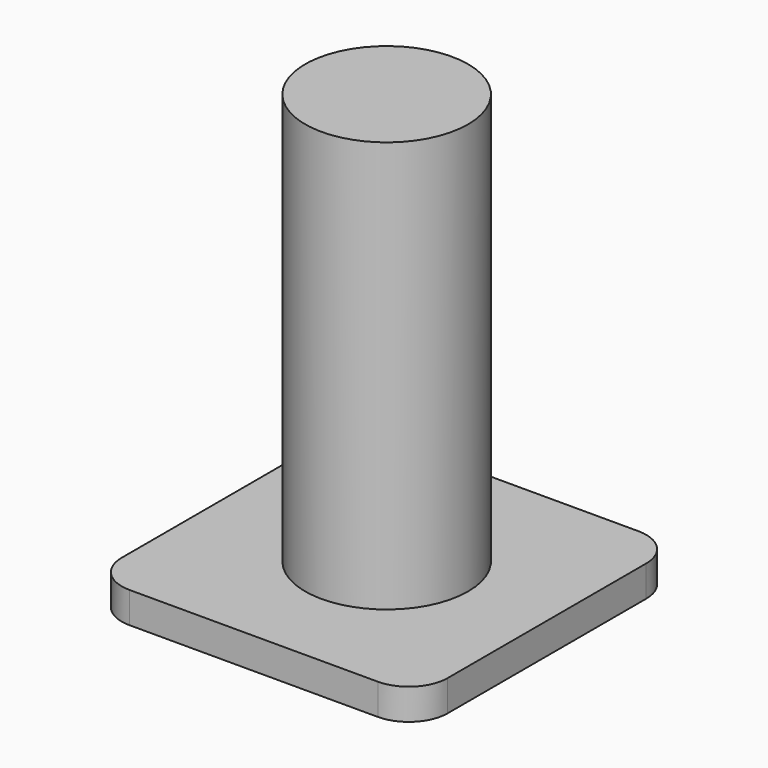
from build123d import *

# Parameters (mm, degrees)
F0_W     = 42
F0_H     = 42
F0_R     = 10.5
F1_DEPTH = 4
F2_DEPTH = 57
F3_R     = 5


with BuildPart() as f1:
    # F0 (on Top) → F1 (new body)
    with BuildSketch(Plane.XY):
        with Locations((-0.312906, -0.03483)):
            Rectangle(F0_W, F0_H)
        Circle(F0_R, mode=Mode.SUBTRACT)
        Circle(F0_R)
    extrude(amount=F1_DEPTH)

    # F0 (on Top) → F2 (join)
    with BuildSketch(Plane.XY):
        Circle(F0_R)
    extrude(amount=F2_DEPTH)

    # F3
    f3_edges = [f1.edges().sort_by_distance(p)[0] for p in [
        (-21.312906, -21.03483, 2),
        (-21.312906, 20.96517, 2),
        (20.687094, -21.03483, 2),
        (20.687094, 20.96517, 2),
    ]]
    fillet(f3_edges, radius=F3_R)


solid = f1.part
